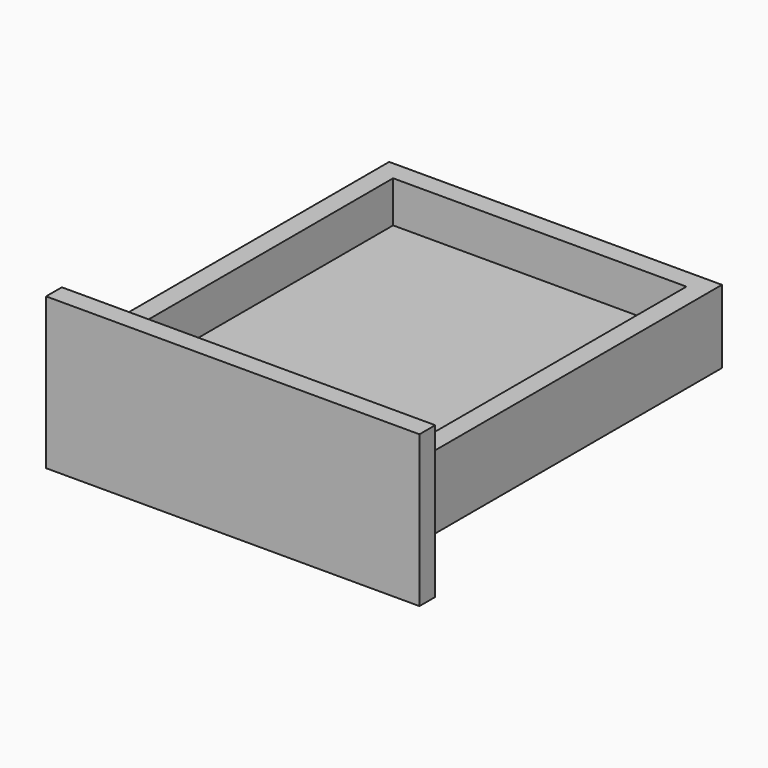
from build123d import *

# Parameters (mm, degrees)
F0_W     = 320.8331465721
F0_H     = 70.6209391356
F1_DEPTH = 370
F2_W     = 282.8331465721
F2_H     = 332
F3_DEPTH = 40
F4_W     = 282.8331465721
F4_H     = 332
F5_DEPTH = 40
F6_W     = 360
F6_H     = 145.8556303974
F6_W_2   = 320.8331465721
F6_H_2   = 70.6209391356
F7_DEPTH = 19


with BuildPart() as f1:
    # F0 (on Front) → F1 (new body)
    with BuildSketch(Plane.XZ):
        Rectangle(F0_W, F0_H)
    extrude(amount=F1_DEPTH)

    # F2 (on face) → F3 (join)
    with BuildSketch(Plane.XY.offset(35.3104695678)):
        with Locations((0, -185)):
            Rectangle(F2_W, F2_H)
    extrude(amount=-F3_DEPTH)

    # F4 (on face) → F5 (cut)
    with BuildSketch(Plane.XY.offset(35.3104695678)):
        with Locations((0, -185)):
            Rectangle(F4_W, F4_H)
    extrude(amount=-F5_DEPTH, mode=Mode.SUBTRACT)

    # F6 (on face) → F7 (join)
    with BuildSketch(Plane.XZ.offset(370)):
        Rectangle(F6_W, F6_H)
        Rectangle(F6_W_2, F6_H_2, mode=Mode.SUBTRACT)
        Rectangle(F6_W_2, F6_H_2)
    extrude(amount=F7_DEPTH)


solid = f1.part
